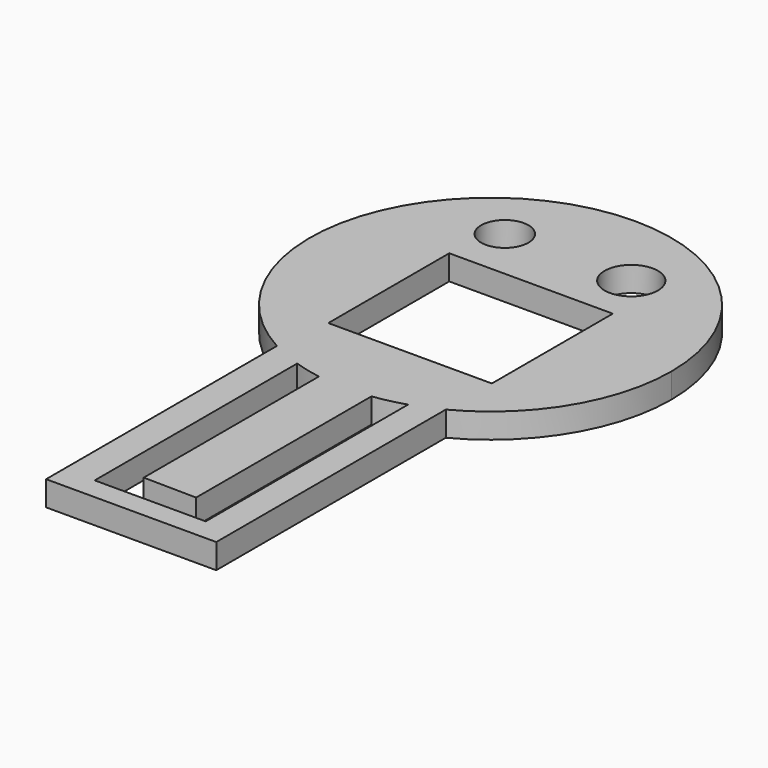
from build123d import *

# Parameters (mm, degrees)
F0_R     = 4.838468
F0_W     = 33.466397
F0_H     = 30.935322
F0_R_2   = 5.460503
F1_DEPTH = 5.08


with BuildPart() as f1:
    # F0 (on Top) → F1 (new body)
    with BuildSketch(Plane.XY):
        with BuildLine():
            ThreePointArc((17.891966, -1.952547), (32.435058, 11.67451), (37.801563, 30.868229))
            ThreePointArc((37.801563, 30.868229), (-18.093211, 62.692563), (-16.933151, -1.616599))
            Line((-16.933151, -1.616599), (17.891966, -1.952547))
        make_face()
        with Locations((-12.703, 51.397717)):
            Circle(F0_R, mode=Mode.SUBTRACT)
        with Locations((1.265535, 25.170104)):
            Rectangle(F0_W, F0_H, mode=Mode.SUBTRACT)
        with Locations((13.170184, 51.397717)):
            Circle(F0_R_2, mode=Mode.SUBTRACT)
        with BuildLine():
            ThreePointArc((-10.608257, -4.338439), (-13.834146, -3.124943), (-16.933151, -1.616599))
            Line((-16.933151, -1.616599), (-16.933151, -58.892032))
            Line((-16.933151, -58.892032), (-16.933151, -60.651779))
            Line((-16.933151, -60.651779), (17.891966, -60.651779))
            Line((17.891966, -60.651779), (17.891966, -1.952547))
            ThreePointArc((17.891966, -1.952547), (15.052123, -3.282136), (12.109917, -4.366543))
            Line((12.109917, -4.366543), (12.109917, -56.126706))
            Line((12.109917, -56.126706), (-10.608257, -56.126706))
            Line((-10.608257, -56.126706), (-10.608257, -50.480825))
            Line((-10.608257, -50.480825), (-10.608257, -4.338439))
        make_face()
        with BuildLine():
            Line((17.891966, -1.952547), (-16.933151, -1.616599))
            ThreePointArc((-16.933151, -1.616599), (-13.834146, -3.124943), (-10.608257, -4.338439))
            ThreePointArc((-10.608257, -4.338439), (-7.87319, -5.109583), (-5.087015, -5.668589))
            ThreePointArc((-5.087015, -5.668589), (0.33248, -6.136051), (5.761954, -5.804015))
            ThreePointArc((5.761954, -5.804015), (8.967599, -5.225107), (12.109917, -4.366543))
            ThreePointArc((12.109917, -4.366543), (15.052123, -3.282136), (17.891966, -1.952547))
        make_face()
        with BuildLine():
            ThreePointArc((5.761954, -5.804015), (0.33248, -6.136051), (-5.087015, -5.668589))
            Line((-5.087015, -5.668589), (-5.087015, -50.480825))
            Line((-5.087015, -50.480825), (5.761954, -50.64771))
            Line((5.761954, -50.64771), (5.761954, -5.804015))
        make_face()
    extrude(amount=F1_DEPTH)


solid = f1.part
